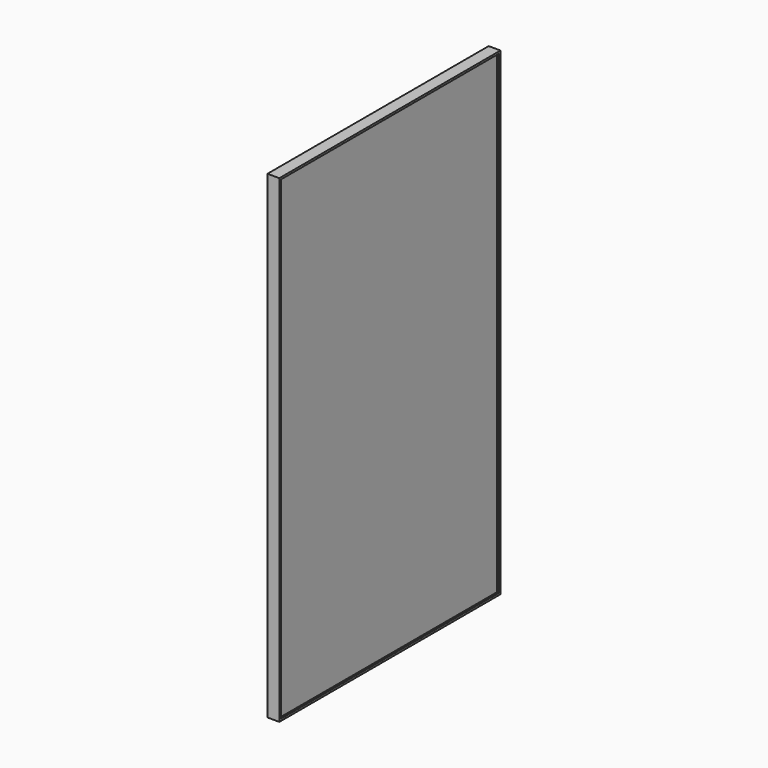
from build123d import *

# Parameters (mm, degrees)
F0_W     = 698.5
F0_H     = 1216.66
F1_DEPTH = 25.4
F0_W_2   = 708.66
F0_H_2   = 1226.82
F2_DEPTH = 30.48


with BuildPart() as f1:
    # F0 (on Right) → F1 (new body)
    with BuildSketch(Plane.YZ):
        Rectangle(F0_W, F0_H)
    extrude(amount=F1_DEPTH)

    # F0 (on Right) → F2 (join)
    with BuildSketch(Plane.YZ):
        Rectangle(F0_W_2, F0_H_2)
        Rectangle(F0_W, F0_H, mode=Mode.SUBTRACT)
    extrude(amount=F2_DEPTH)


solid = f1.part
